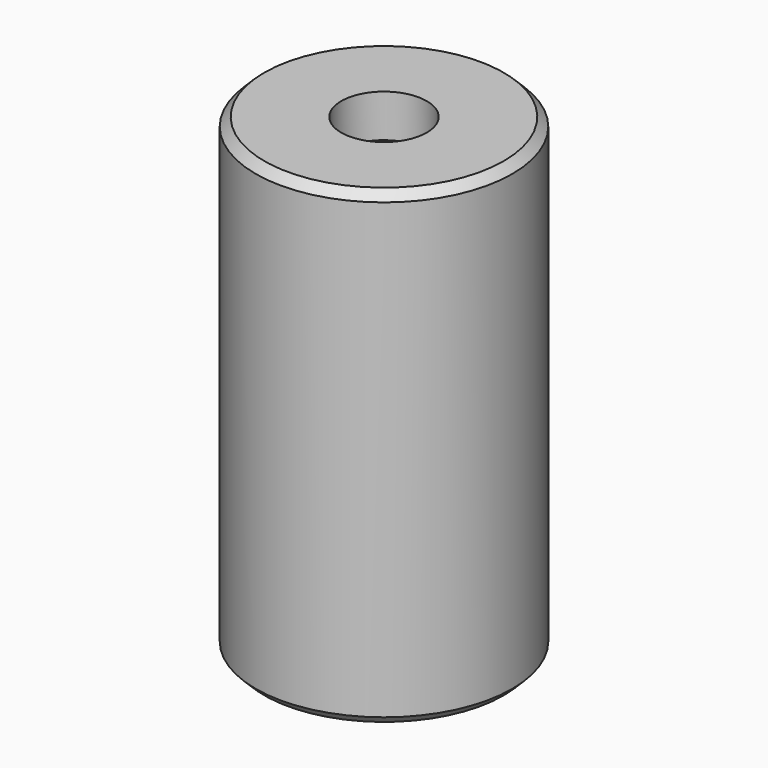
from build123d import *

# Parameters (mm, degrees)
F0_R           = 19.05
F1_DEPTH       = 69.85
F2_R           = 14
F3_DEPTH       = 30.48
F4_R           = 12.5
F5_DEPTH       = 1
F7_D           = 9.525
F7_CBORE_D     = 12.7
F7_CBORE_DEPTH = 6.35
F8_R           = 9
F9_DEPTH       = 6.35
F11_R          = 14.8971
F11_R_2        = 14
F12_DEPTH      = 2.54
F13_SIZE       = 1.27


with BuildPart() as f1:
    # F0 (on Top) → F1 (new body)
    with BuildSketch(Plane.XY):
        with Locations((-34.2093408108, -25.4185739905)):
            Circle(F0_R)
    extrude(amount=F1_DEPTH)

    # F2 (on face) → F3 (cut)
    with BuildSketch(Plane(origin=(0, 0, 0), x_dir=(1, 0, 0), z_dir=(0, 0, -1))):
        with Locations((-34.2093408108, 25.4185739905)):
            Circle(F2_R)
    extrude(amount=-F3_DEPTH, mode=Mode.SUBTRACT)

    # F4 (on face) → F5 (cut)
    with BuildSketch(Plane(origin=(0, 0, 30.48), x_dir=(1, 0, 0), z_dir=(0, 0, -1))):
        with Locations((-34.2093408108, 25.4185739905)):
            Circle(F4_R)
    extrude(amount=-F5_DEPTH, mode=Mode.SUBTRACT)

    # F7 (through all)
    with Locations(Plane.XY.offset(69.85)):
        with Locations((-34.2093408108, -25.4185739905)):
            CounterBoreHole(F7_D / 2, F7_CBORE_D / 2, F7_CBORE_DEPTH)

    # F8 (on face) → F9 (cut)
    with BuildSketch(Plane(origin=(0, 0, 31.48), x_dir=(1, 0, 0), z_dir=(0, 0, -1))):
        with Locations((-34.2093408108, 25.4185739905)):
            Circle(F8_R)
    extrude(amount=-F9_DEPTH, mode=Mode.SUBTRACT)

    # F11 (on offset) → F12 (cut)
    with BuildSketch(Plane(origin=(0, 0, 2.032), x_dir=(1, 0, 0), z_dir=(0, 0, -1))):
        with Locations((-34.2093408108, 25.4185739905)):
            Circle(F11_R)
        with Locations((-34.2093408108, 25.4185739905)):
            Circle(F11_R_2, mode=Mode.SUBTRACT)
    extrude(amount=-F12_DEPTH, mode=Mode.SUBTRACT)

    # F13
    f13_edges = [f1.edges().sort_by_distance(p)[0] for p in [
        (-53.259341, -25.418574, 69.85),
        (-53.259341, -25.418574, 0),
    ]]
    chamfer(f13_edges, length=F13_SIZE)


solid = f1.part
